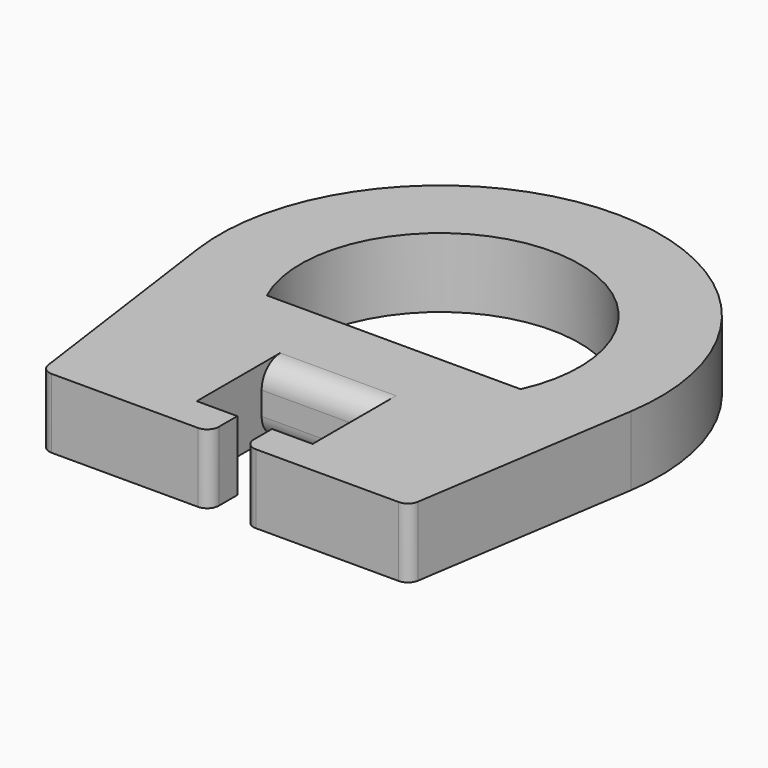
from build123d import *

# Parameters (mm, degrees)
F1_DEPTH = 3
F2_R     = 1


with BuildPart() as f1:
    # F0 (on Top) → F1 (new body)
    with BuildSketch(Plane.XY):
        with BuildLine():
            Line((-28.706517, 10.57433), (-28.706517, 14.07433))
            Line((-28.706517, 14.07433), (-23.706517, 14.07433))
            Line((-23.706517, 14.07433), (-23.706517, 10.57433))
            Line((-23.706517, 10.57433), (-25.456517, 10.57433))
            Line((-25.456517, 10.57433), (-25.456517, 9.57433))
            ThreePointArc((-25.456517, 9.57433), (-25.31007, 9.220777), (-24.956517, 9.07433))
            Line((-24.956517, 9.07433), (-23.706517, 9.07433))
            Line((-23.706517, 9.07433), (-22.618948, 9.07433))
            Line((-22.618948, 9.07433), (-18.791793, 9.07433))
            ThreePointArc((-18.791793, 9.07433), (-18.466205, 9.194866), (-18.297598, 9.498359))
            Line((-18.297598, 9.498359), (-16.816818, 19.130878))
            ThreePointArc((-16.816818, 19.130878), (-26.134756, 30.074059), (-35.61695, 19.272893))
            Line((-35.61695, 19.272893), (-34.266192, 9.505833))
            ThreePointArc((-34.266192, 9.505833), (-34.099351, 9.197336), (-33.770906, 9.07433))
            Line((-33.770906, 9.07433), (-29.794085, 9.07433))
            Line((-29.794085, 9.07433), (-27.456517, 9.07433))
            ThreePointArc((-27.456517, 9.07433), (-27.102963, 9.220777), (-26.956517, 9.57433))
            Line((-26.956517, 9.57433), (-26.956517, 10.57433))
            Line((-26.956517, 10.57433), (-28.706517, 10.57433))
        make_face()
        with BuildLine():
            Line((-20.729291, 18.07433), (-31.683742, 18.07433))
            ThreePointArc((-31.683742, 18.07433), (-26.206517, 26.595127), (-20.729291, 18.07433))
        make_face(mode=Mode.SUBTRACT)
    extrude(amount=F1_DEPTH)

    # F2
    f2_edges = [f1.edges().sort_by_distance(p)[0] for p in [
        (-26.206517, 14.07433, 3),
        (-26.206517, 14.07433, 0),
    ]]
    fillet(f2_edges, radius=F2_R)


solid = f1.part
